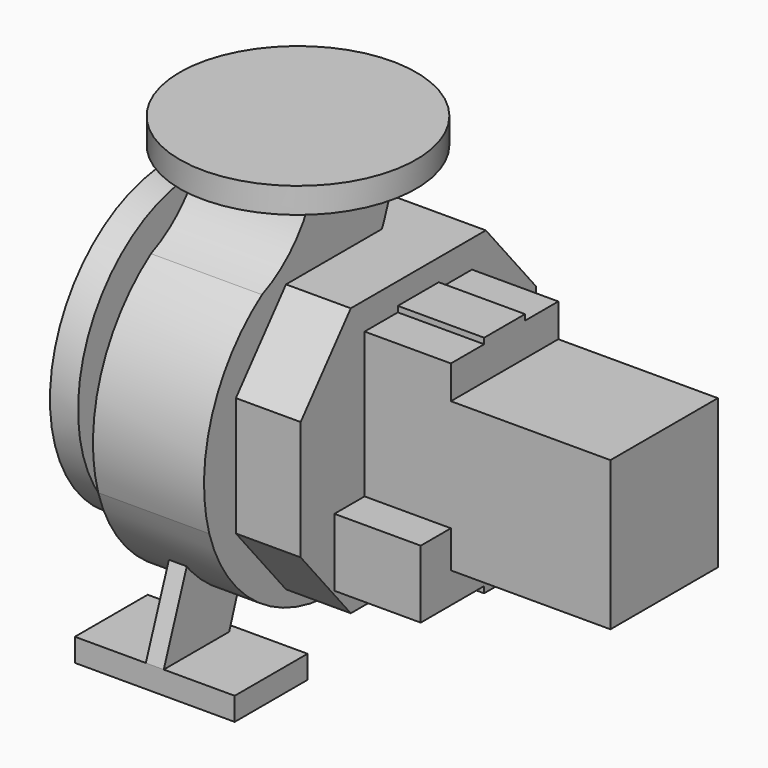
from build123d import *

# Parameters (mm, degrees)
F0_W      = 53
F0_H      = 75
F2_W      = 92.5
F2_H      = 20
F5_DEPTH  = 7
F6_W      = 71.2
F6_H      = 18
F7_DEPTH  = 62.5
F8_W      = 71.2
F8_H      = 18
F9_DEPTH  = 62.5
F11_DEPTH = 43.435
F14_DEPTH = 94
F16_DEPTH = 67.5
F18_W     = 105
F18_H     = 116.5
F19_DEPTH = 124.8


with BuildPart() as f1:
    # F0 (on Front) → F1 (revolve)
    with BuildSketch(Plane.XZ):
        with Locations((-51.5, 37.5)):
            Rectangle(F0_W, F0_H)
        Polygon((-100, 0), (-78, 0), (-78, 75), (-78, 117.5), (-100, 117.5), align=None)
    revolve(axis=Axis((-62.5, 0, 0), (-1, 0, 0)))


with BuildPart() as f3:
    # F2 (on Front) → F3 (revolve)
    with BuildSketch(Plane.XZ):
        with Locations((-46.25, 170)):
            Rectangle(F2_W, F2_H)
    revolve(axis=Axis((0, 0, 170), (0, 0, 1)))


with BuildPart() as f5:
    # F4 (on Right) → F5 (new body, symmetric)
    with BuildSketch(Plane.YZ):
        Polygon((-92.155384, -10.547998), (-140, -142), (-76, -142), (-37.623998, -30.547998), (37.623998, -30.547998), (76, -142), (140, -142), (92.155384, -10.547998), align=None)
    extrude(amount=F5_DEPTH, both=True)

    # F6 (on Right) → F7 (join, symmetric)
    with BuildSketch(Plane.YZ):
        with Locations((104.4, -151)):
            Rectangle(F6_W, F6_H)
    extrude(amount=F7_DEPTH, both=True)

    # F8 (on Right) → F9 (join, symmetric)
    with BuildSketch(Plane.YZ):
        with Locations((-104.4, -151)):
            Rectangle(F8_W, F8_H)
    extrude(amount=F9_DEPTH, both=True)


with BuildPart() as f11:
    # F10 (on Right) → F11 (new body, symmetric)
    with BuildSketch(Plane.YZ):
        with BuildLine():
            ThreePointArc((-141.031066, -36.178144), (-7.808853, -125.796422), (105.832975, -12.371871))
            ThreePointArc((105.832975, -12.371871), (84.147849, 57.641816), (16, 84.623878))
            ThreePointArc((16, 84.623878), (33.855181, 120.447631), (40, 160))
            Line((40, 160), (-40, 160))
            ThreePointArc((-40, 160), (-59.105853, 128.419799), (-89.473282, 107.439762))
            ThreePointArc((-89.473282, 107.439762), (-138.505183, 43.97847), (-141.031066, -36.178144))
        make_face()
    extrude(amount=F11_DEPTH, both=True)


with BuildPart() as f14:
    # F13 (on offset) → F14 (new body)
    with BuildSketch(Plane.YZ.offset(94.1)):
        Polygon((115, 46.604074), (66, 105), (0, 105), (-66, 105), (-115, 46.604074), (-115, 0), (-115, -46.604074), (-66, -105), (0, -105), (66, -105), (115, -46.604074), (115, 0), align=None)
    extrude(amount=-F14_DEPTH)

    # F15 (on offset) → F16 (join)
    with BuildSketch(Plane.YZ.offset(94.1)):
        Polygon((20, 88), (-20, 88), (-20, 83.5), (-52.5, 83.5), (-52.5, -30), (-82, -30), (-82, -83), (-20, -83), (-20, -88), (20, -88), (20, -83), (82, -83), (82, -30), (52.5, -30), (52.5, 83.5), (20, 83.5), align=None)
    extrude(amount=F16_DEPTH)

    # F18 (on offset) → F19 (join)
    with BuildSketch(Plane.YZ.offset(161.6)):
        with Locations((0, -0.75)):
            Rectangle(F18_W, F18_H)
    extrude(amount=F19_DEPTH)


solid = Compound([f1.part, f3.part, f5.part, f11.part, f14.part])
